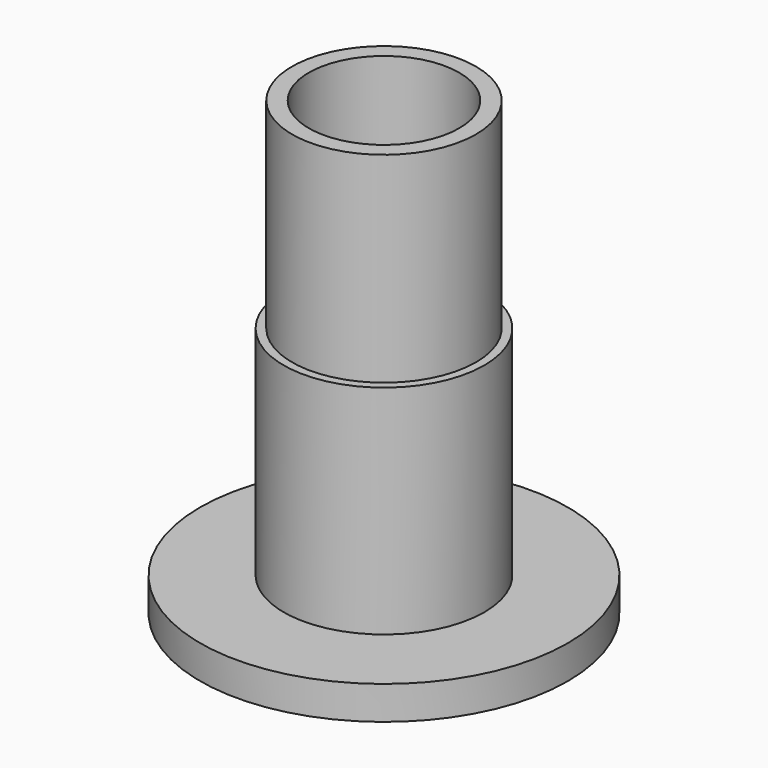
from build123d import *

# Parameters (mm, degrees)
F0_R     = 5.5
F0_R_2   = 2.25
F1_DEPTH = 13.5
F2_R     = 5.5
F2_R_2   = 3
F3_DEPTH = 12.5
F4_R     = 3
F4_R_2   = 2.75
F5_DEPTH = 6


with BuildPart() as f1:
    # F0 (on Top) → F1 (new body)
    with BuildSketch(Plane.XY):
        Circle(F0_R)
        Circle(F0_R_2, mode=Mode.SUBTRACT)
    extrude(amount=F1_DEPTH)

    # F2 (on face) → F3 (cut)
    with BuildSketch(Plane.XY.offset(13.5)):
        Circle(F2_R)
        Circle(F2_R_2, mode=Mode.SUBTRACT)
    extrude(amount=-F3_DEPTH, mode=Mode.SUBTRACT)

    # F4 (on face) → F5 (cut)
    with BuildSketch(Plane.XY.offset(13.5)):
        Circle(F4_R)
        Circle(F4_R_2, mode=Mode.SUBTRACT)
    extrude(amount=-F5_DEPTH, mode=Mode.SUBTRACT)


solid = f1.part
